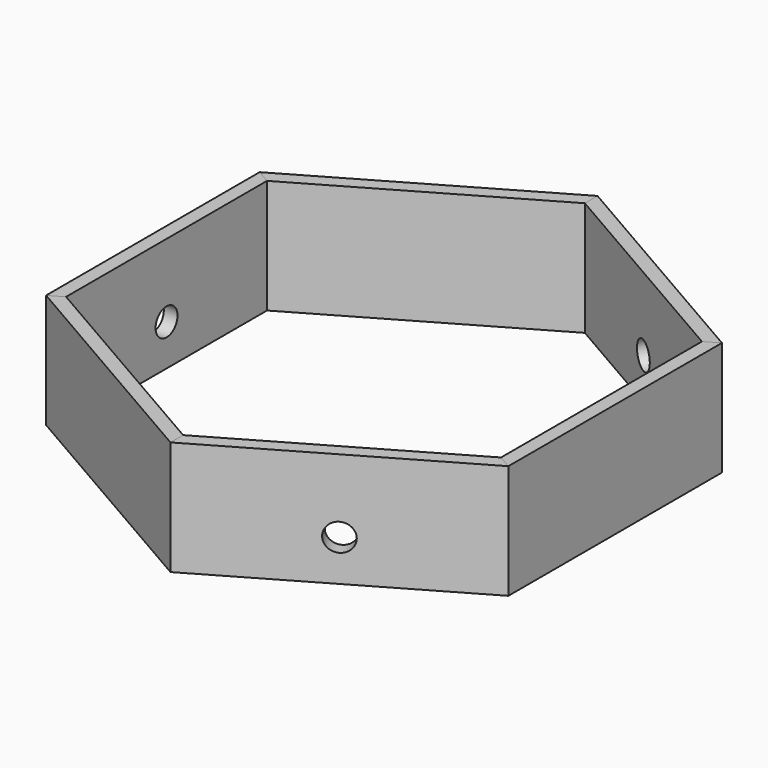
from build123d import *

# Parameters (mm, degrees)
F1_DEPTH  = 50
F2_DEPTH  = 50
F3_DEPTH  = 50
F4_DEPTH  = 50
F5_DEPTH  = 50
F6_DEPTH  = 50
F7_R      = 6
F8_DEPTH  = 25
F9_R      = 6
F11_DEPTH = 25
F10_R     = 6
F12_DEPTH = 25


with BuildPart() as f1:
    # F0 (on Top) → F1 (new body)
    with BuildSketch(Plane.XY):
        Polygon((0, 110), (0, 116.9282032303), (-101.2627944163, 58.4641016151), (-95.2627944163, 55), align=None)
    extrude(amount=F1_DEPTH)


with BuildPart() as f2:
    # F0 (on Top) → F2 (new body)
    with BuildSketch(Plane.XY):
        Polygon((-101.2627944163, 58.4641016151), (-101.2627944163, -58.4641016151), (-95.2627944163, -55), (-95.2627944163, 55), align=None)
    extrude(amount=F2_DEPTH)

    # F10 (on face) → F12 (cut)
    with BuildSketch(Plane(origin=(-101.2627944163, 0, 0), x_dir=(0, -1, 0), z_dir=(-1, 0, 0))):
        with Locations((0, 18)):
            Circle(F10_R)
    extrude(amount=-F12_DEPTH, mode=Mode.SUBTRACT)


with BuildPart() as f3:
    # F0 (on Top) → F3 (new body)
    with BuildSketch(Plane.XY):
        Polygon((-101.2627944163, -58.4641016151), (0, -116.9282032303), (0, -110), (-95.2627944163, -55), align=None)
    extrude(amount=F3_DEPTH)


with BuildPart() as f4:
    # F0 (on Top) → F4 (new body)
    with BuildSketch(Plane.XY):
        Polygon((95.2627944163, 55), (101.2627944163, 58.4641016151), (0, 116.9282032303), (0, 110), align=None)
    extrude(amount=F4_DEPTH)

    # F9 (on face) → F11 (cut)
    with BuildSketch(Plane(origin=(50.6313972081, 87.6961524227, 0), x_dir=(-0.8660254038, 0.5, 0), z_dir=(0.5, 0.8660254038, 0))):
        with Locations((0, 18)):
            Circle(F9_R)
    extrude(amount=-F11_DEPTH, mode=Mode.SUBTRACT)


with BuildPart() as f5:
    # F0 (on Top) → F5 (new body)
    with BuildSketch(Plane.XY):
        Polygon((95.2627944163, -55), (101.2627944163, -58.4641016151), (101.2627944163, 58.4641016151), (95.2627944163, 55), align=None)
    extrude(amount=F5_DEPTH)


with BuildPart() as f6:
    # F0 (on Top) → F6 (new body)
    with BuildSketch(Plane.XY):
        Polygon((0, -116.9282032303), (101.2627944163, -58.4641016151), (95.2627944163, -55), (0, -110), align=None)
    extrude(amount=F6_DEPTH)

    # F7 (on face) → F8 (cut)
    with BuildSketch(Plane(origin=(50.6313972081, -87.6961524227, 0), x_dir=(0.8660254038, 0.5, 0), z_dir=(0.5, -0.8660254038, 0))):
        with Locations((0, 18)):
            Circle(F7_R)
    extrude(amount=-F8_DEPTH, mode=Mode.SUBTRACT)


solid = Compound([f1.part, f2.part, f3.part, f4.part, f5.part, f6.part])
